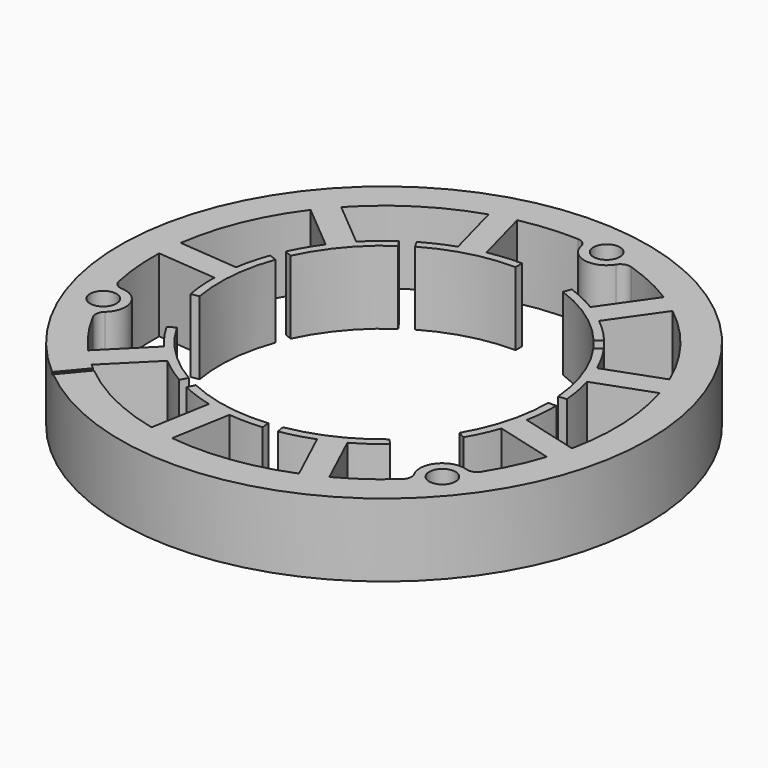
from build123d import *

# Parameters (mm, degrees)
F0_R          = 65
F0_R_2        = 57
F1_DEPTH      = 9
F2_R          = 5.5
F3_DEPTH      = 9
F4_R          = 2.5
F5_R          = 3.25
F6_DEPTH      = 9
F6_DEPTH_BACK = 9
F9_START      = 8.6
F9_DEPTH      = 16.4
F10_DEPTH     = 9


with BuildPart() as f1:
    # F0 (on Top) → F1 (new body, symmetric)
    with BuildSketch(Plane.XY):
        Circle(F0_R)
        Circle(F0_R_2, mode=Mode.SUBTRACT)
    extrude(amount=F1_DEPTH, both=True)

    # F2 (on Top) → F3 (join, symmetric)
    with BuildSketch(Plane.XY):
        with Locations((-53.5624793848, -19.4951481696)):
            Circle(F2_R)
        with Locations((9.897254107, 56.1301172813)):
            Circle(F2_R)
        with Locations((43.5797913337, -36.5677868349)):
            Circle(F2_R)
    extrude(amount=F3_DEPTH, both=True)

    # F4
    f4_edges = [f1.edges().sort_by_distance(p)[0] for p in [
        (-55.192051, -14.242102, 0),
        (-51.434211, -24.566684, 0),
        (4.441543, 56.82669, 0),
        (15.262188, 54.918718, 0),
        (39.927025, -40.679635, 0),
        (46.994875, -32.256499, 0),
    ]]
    fillet(f4_edges, radius=F4_R)

    # F5 (on Top) → F6 (cut, two sides)
    with BuildSketch(Plane.XY) as f6_sk:
        with Locations((-53.5624793848, -19.4951481696)):
            Circle(F5_R)
        with Locations((9.897946127, 56.1340419217)):
            Circle(F5_R)
        with Locations((43.6645332578, -36.6388937521)):
            Circle(F5_R)
    extrude(amount=F6_DEPTH, mode=Mode.SUBTRACT)
    extrude(f6_sk.sketch, amount=-F6_DEPTH_BACK, mode=Mode.SUBTRACT)

    # F8 (on Top) → F9 (cut)
    with BuildSketch(Plane.XY.offset(F9_START)):
        Polygon((-33.9324921098, -41.217031291), (-34.3155143314, -40.8956374862), (-43.9573284767, -52.3863041329), (-43.5743062551, -52.7076979378), align=None)
        Polygon((-43.9573284767, -52.3863041329), (-34.3155143314, -40.8956374862), (-34.698536553, -40.5742436813), (-44.3403506983, -52.0649103281), align=None)
    extrude(amount=F9_DEPTH, mode=Mode.SUBTRACT)

    # F7 (on Top) → F10 (join, symmetric)
    with BuildSketch(Plane.XY):
        with BuildLine():
            ThreePointArc((-39.7212559365, -7.1239992433), (-40.1826586766, 3.5246219918), (-37.8476175974, 13.9243147689))
            Line((-37.8476175974, 13.9243147689), (-39.7249904856, 14.613858306))
            ThreePointArc((-39.7249904856, 14.613858306), (-40.9571626469, 10.693128643), (-41.8045596667, 6.6716503555))
            Line((-41.8045596667, 6.6716503555), (-56.722931506, 7.9783914232))
            Line((-56.722931506, 7.9783914232), (-57.2463732718, 2.0025335502))
            Line((-57.2463732718, 2.0025335502), (-42.3373638669, 0.6966125637))
            ThreePointArc((-42.3373638669, 0.6966125637), (-42.2103006381, -3.4057311883), (-41.686803813, -7.4765198587))
            Line((-41.686803813, -7.4765198587), (-39.7212559365, -7.1239992433))
        make_face()
        with BuildLine():
            ThreePointArc((-36.6238975524, 16.9475480691), (-30.8940583301, 25.9350376621), (-23.0162859343, 33.1146427194))
            Line((-23.0162859343, 33.1146427194), (-24.1586338489, 34.7563005684))
            ThreePointArc((-24.1586338489, 34.7563005684), (-27.4168083417, 32.2513717671), (-30.4175805278, 29.4432165696))
            Line((-30.4175805278, 29.4432165696), (-41.8884794326, 39.0704627424))
            Line((-41.8884794326, 39.0704627424), (-45.744869088, 34.4755604119))
            Line((-45.744869088, 34.4755604119), (-34.2811690613, 24.8543560823))
            ThreePointArc((-34.2811690613, 24.8543560823), (-36.5300926676, 21.4210323374), (-38.4361776319, 17.7861720328))
            Line((-38.4361776319, 17.7861720328), (-36.6238975524, 16.9475480691))
        make_face()
        with BuildLine():
            ThreePointArc((-20.2798254314, 34.8892217551), (-10.4312036665, 38.9648414662), (0.1399419791, 40.327525009))
            Line((0.1399419791, 40.327525009), (0.1458016084, 42.3275162379))
            ThreePointArc((0.1458016084, 42.3275162379), (-3.9599068233, 42.1444108041), (-8.0286871449, 41.5652769502))
            Line((-8.0286871449, 41.5652769502), (-11.9031358809, 56.0308926491))
            Line((-11.9031358809, 56.0308926491), (-17.6976330548, 54.4789032475))
            Line((-17.6976330548, 54.4789032475), (-13.8256158356, 40.0223658436))
            ThreePointArc((-13.8256158356, 40.0223658436), (-17.6370998036, 38.499881267), (-21.2833434188, 36.615663439))
            Line((-21.2833434188, 36.615663439), (-20.2798254314, 34.8892217551))
        make_face()
        with BuildLine():
            ThreePointArc((13.6795065853, 37.9451147661), (23.1321844603, 33.0203906428), (30.9710620571, 25.7983393608))
            Line((30.9710620571, 25.7983393608), (32.5069107215, 27.0794202058))
            ThreePointArc((32.5069107215, 27.0794202058), (29.7275453125, 30.1068774308), (26.6685414647, 32.8514839208))
            Line((26.6685414647, 32.8514839208), (35.2593983452, 45.1178023829))
            Line((35.2593983452, 45.1178023829), (30.3458745006, 48.559045186))
            Line((30.3458745006, 48.559045186), (21.7604090486, 36.3004247893))
            ThreePointArc((21.7604090486, 36.3004247893), (18.1441435298, 38.2415566813), (14.3569887153, 39.8235894672))
            Line((14.3569887153, 39.8235894672), (13.6795065853, 37.9451147661))
        make_face()
        with BuildLine():
            ThreePointArc((32.9773988742, 23.2269500646), (37.8958735669, 13.771018942), (40.1747077377, 3.3588653934))
            Line((40.1747077377, 3.3588653934), (42.1675990966, 3.5273387828))
            ThreePointArc((42.1675990966, 3.5273387828), (41.6273543664, 7.6014650643), (40.6958067207, 11.6042876071))
            Line((40.6958067207, 11.6042876071), (54.7686959271, 16.7247543765))
            Line((54.7686959271, 16.7247543765), (52.7175886088, 22.3619369502))
            Line((52.7175886088, 22.3619369502), (38.6535312309, 17.2446836706))
            ThreePointArc((38.6535312309, 17.2446836706), (36.8046474516, 20.9089705173), (34.6098085708, 24.3771186704))
            Line((34.6098085708, 24.3771186704), (32.9773988742, 23.2269500646))
        make_face()
        with BuildLine():
            ThreePointArc((40.3433080122, 0.1017315636), (38.9485873358, -10.4652349327), (34.8431330783, -20.3014573803))
            Line((34.8431330783, -20.3014573803), (36.5722464753, -21.3065275826))
            ThreePointArc((36.5722464753, -21.3065275826), (38.4665267339, -17.6593270633), (39.999372265, -13.8460930155))
            Line((39.999372265, -13.8460930155), (54.4641873096, -17.7235298338))
            Line((54.4641873096, -17.7235298338), (56.0173736484, -11.9293533783))
            Line((56.0173736484, -11.9293533783), (41.5616363963, -8.054349952))
            ThreePointArc((41.5616363963, -8.054349952), (42.1488680601, -3.9922657213), (42.3402093623, 0.1075827918))
            Line((42.3402093623, 0.1075827918), (40.3433080122, 0.1017315636))
        make_face()
        with BuildLine():
            ThreePointArc((26.0216786036, -30.819357343), (17.0304034687, -36.5432544549), (6.8564847926, -39.7208959499))
            Line((6.8564847926, -39.7208959499), (7.1980090166, -41.6915203321))
            ThreePointArc((7.1980090166, -41.6915203321), (11.2095465868, -40.798247894), (15.1159474544, -39.5213760965))
            Line((15.1159474544, -39.5213760965), (21.4434624133, -53.0944356264))
            Line((21.4434624133, -53.0944356264), (26.8804280236, -50.5598205564))
            Line((26.8804280236, -50.5598205564), (20.5568840708, -36.9952791733))
            ThreePointArc((20.5568840708, -36.9952791733), (24.0460863607, -34.8340673132), (27.3097443501, -32.3453114287))
            Line((27.3097443501, -32.3453114287), (26.0216786036, -30.819357343))
        make_face()
        with BuildLine():
            ThreePointArc((3.6264279306, -40.1727399539), (-7.0218859844, -39.7042984243), (-17.178492551, -36.471749933))
            Line((-17.178492551, -36.471749933), (-18.0290359953, -38.2818811715))
            ThreePointArc((-18.0290359953, -38.2818811715), (-14.2306167722, -39.8510786516), (-10.2982969404, -41.045745997))
            Line((-10.2982969404, -41.045745997), (-12.9002872421, -55.7934589391))
            Line((-12.9002872421, -55.7934589391), (-6.9927902683, -56.8357391824))
            Line((-6.9927902683, -56.8357391824), (-4.3924329172, -42.0972815731))
            ThreePointArc((-4.3924329172, -42.0972815731), (-0.2946255315, -42.3282446749), (3.8062983135, -42.1615325234))
            Line((3.8062983135, -42.1615325234), (3.6264279306, -40.1727399539))
        make_face()
        with BuildLine():
            ThreePointArc((-20.0835533284, -34.9891951389), (-28.5374544169, -28.4978483538), (-35.003145805, -20.0243094489))
            Line((-35.003145805, -20.0243094489), (-36.7381188312, -21.0192304756))
            ThreePointArc((-36.7381188312, -21.0192304756), (-34.5266906582, -24.4833255611), (-31.9907558677, -27.717425755))
            Line((-31.9907558677, -27.717425755), (-42.5811221763, -38.3056046355))
            Line((-42.5811221763, -38.3056046355), (-38.3398113412, -42.5477916895))
            Line((-38.3398113412, -42.5477916895), (-27.7560913082, -31.9662577118))
            ThreePointArc((-27.7560913082, -31.9662577118), (-24.531839004, -34.5058573659), (-21.0769366911, -36.7214880511))
            Line((-21.0769366911, -36.7214880511), (-20.0835533284, -34.9891951389))
        make_face()
    extrude(amount=F10_DEPTH, both=True)


solid = f1.part
